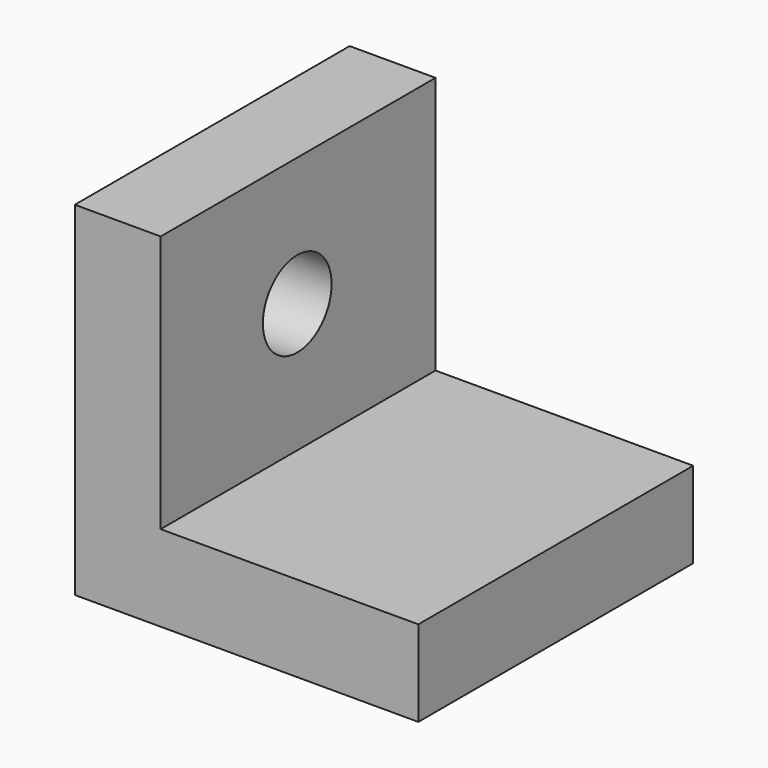
from build123d import *

# Parameters (mm, degrees)
F1_DEPTH = 50.8
F3_D     = 12.7


with BuildPart() as f1:
    # F0 (on Front) → F1 (new body)
    with BuildSketch(Plane.XZ):
        Polygon((12.7, 50.8), (0, 50.8), (0, 0), (50.8, 0), (50.8, 12.7), (12.7, 12.7), align=None)
    extrude(amount=F1_DEPTH)

    # F3 (through all)
    with Locations(Plane(origin=(0, 0, 0), x_dir=(0, 1, 0), z_dir=(-1, 0, 0))):
        with Locations((-25.5587492138, -31.7817507312)):
            Hole(F3_D / 2)


solid = f1.part
